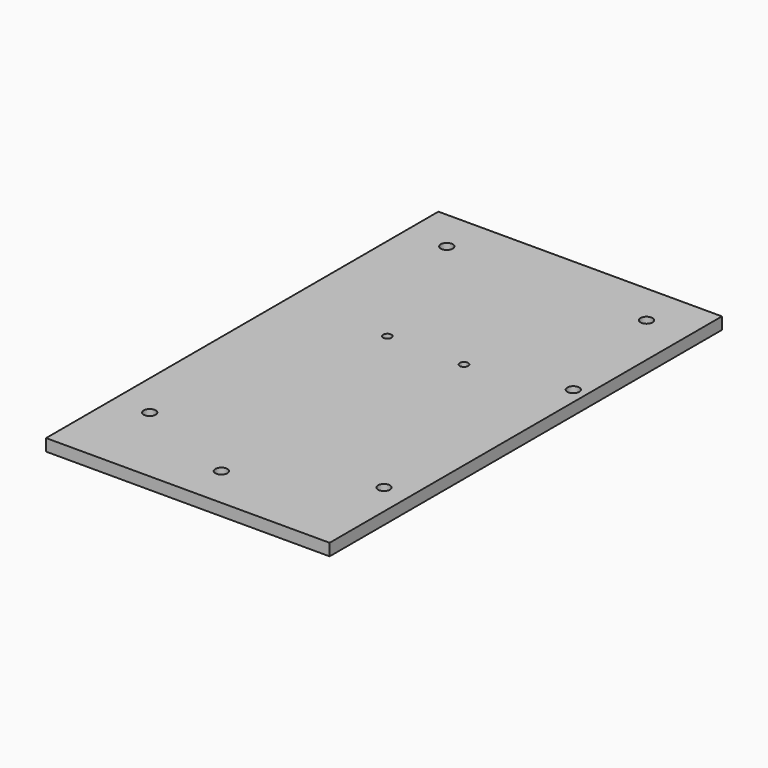
from build123d import *

# Parameters (mm, degrees)
F3_W     = 118.5
F3_H     = 204.946867
F3_R     = 2.5
F3_R_2   = 1.75
F4_DEPTH = 5


with BuildPart() as f4:
    # F3 (on Top) → F4 (new body)
    with BuildSketch(Plane.XY):
        with Locations((0, 84.973433)):
            Rectangle(F3_W, F3_H)
        with Locations((-44.1, 17.7)):
            Circle(F3_R, mode=Mode.SUBTRACT)
        Circle(F3_R, mode=Mode.SUBTRACT)
        with Locations((48.7, 24.1)):
            Circle(F3_R, mode=Mode.SUBTRACT)
        with Locations((-17.25, 108.3)):
            Circle(F3_R_2, mode=Mode.SUBTRACT)
        with Locations((-41.75, 169.946867)):
            Circle(F3_R, mode=Mode.SUBTRACT)
        with Locations((14.75, 108.3)):
            Circle(F3_R_2, mode=Mode.SUBTRACT)
        with Locations((53.75, 116.68)):
            Circle(F3_R, mode=Mode.SUBTRACT)
        with Locations((41.75, 169.946867)):
            Circle(F3_R, mode=Mode.SUBTRACT)
    extrude(amount=F4_DEPTH)


solid = f4.part
